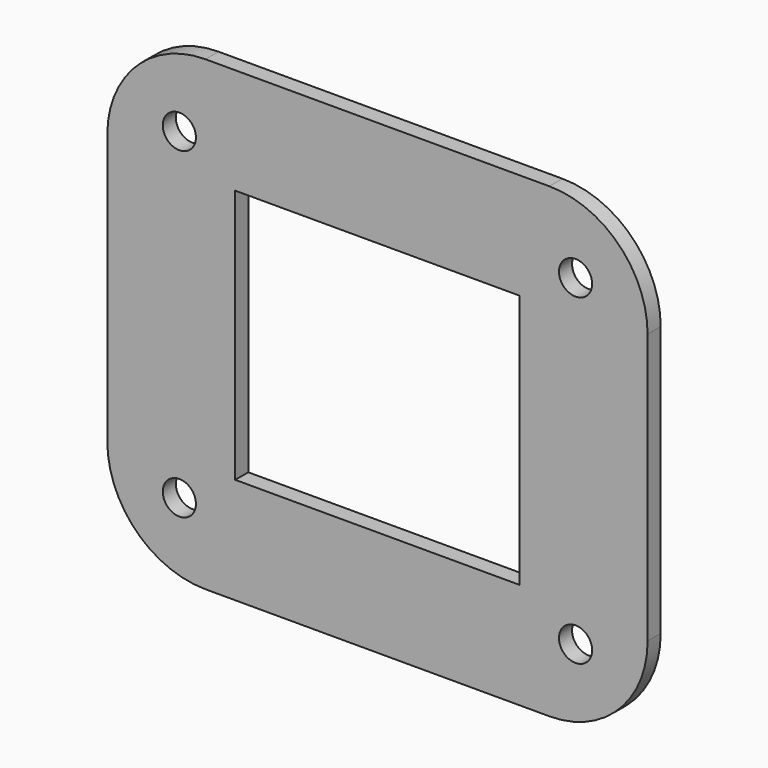
from build123d import *

# Parameters (mm, degrees)
F0_R     = 2.025
F0_W     = 34.75
F0_H     = 31.1
F1_DEPTH = 2


with BuildPart() as f1:
    # F0 (on Front) → F1 (new body)
    with BuildSketch(Plane.XZ):
        with BuildLine():
            Line((-21, -28.5), (21, -28.5))
            ThreePointArc((21, -28.5), (29.485281, -24.985281), (33, -16.5))
            Line((33, -16.5), (33, 16.5))
            ThreePointArc((33, 16.5), (29.485281, 24.985281), (21, 28.5))
            Line((21, 28.5), (-21, 28.5))
            ThreePointArc((-21, 28.5), (-29.485281, 24.985281), (-33, 16.5))
            Line((-33, 16.5), (-33, -16.5))
            ThreePointArc((-33, -16.5), (-29.485281, -24.985281), (-21, -28.5))
        make_face()
        with Locations((-24.2, -19.7)):
            Circle(F0_R, mode=Mode.SUBTRACT)
        with Locations((24.2, -19.7)):
            Circle(F0_R, mode=Mode.SUBTRACT)
        with Locations((-24.2, 19.7)):
            Circle(F0_R, mode=Mode.SUBTRACT)
        Rectangle(F0_W, F0_H, mode=Mode.SUBTRACT)
        with Locations((24.2, 19.7)):
            Circle(F0_R, mode=Mode.SUBTRACT)
    extrude(amount=-F1_DEPTH)


solid = f1.part
